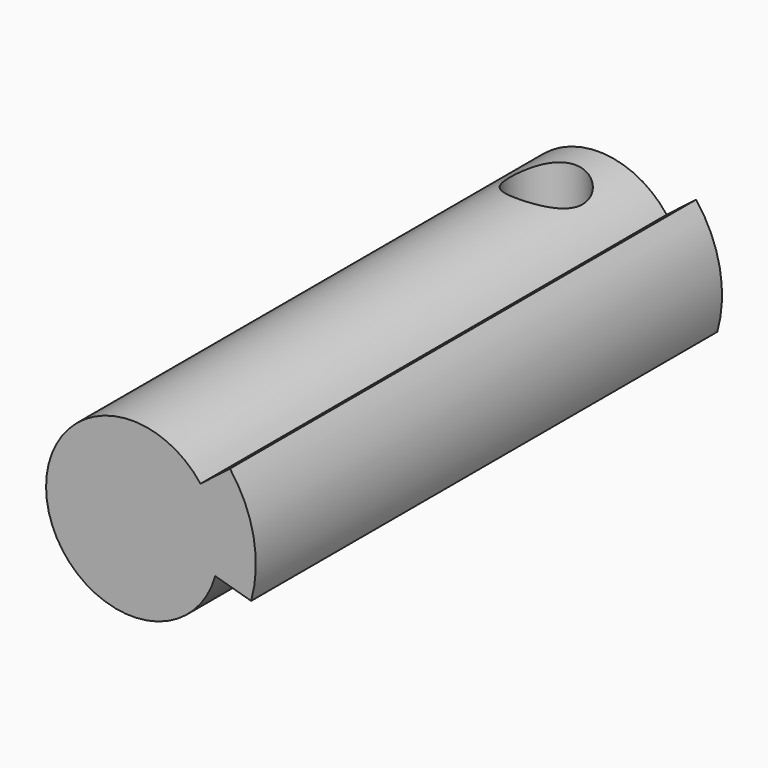
from build123d import *

# Parameters (mm, degrees)
F1_DEPTH      = 50.8
F2_R          = 6.35
F3_DEPTH      = 15.0378
F3_DEPTH_BACK = 25.4


with BuildPart() as f1:
    # F0 (on Front) → F1 (new body, symmetric)
    with BuildSketch(Plane.XZ):
        with BuildLine():
            Line((17.0268970914, 13.1917365074), (11.886701743, 9.2093254863))
            ThreePointArc((11.886701743, 9.2093254863), (-14.7645031598, -2.8486489228), (14.4596240561, -4.1260909341))
            Line((14.4596240561, -4.1260909341), (20.7124344587, -5.9103464731))
            ThreePointArc((20.7124344587, -5.9103464731), (21.1491531748, 4.0804971056), (17.0268970914, 13.1917365074))
        make_face()
    extrude(amount=F1_DEPTH, both=True)

    # F2 (on Top) → F3 (cut, two sides)
    with BuildSketch(Plane.XY) as f3_sk:
        with Locations((0, 39.4029297239)):
            Circle(F2_R)
    extrude(amount=-F3_DEPTH, mode=Mode.SUBTRACT)
    extrude(f3_sk.sketch, amount=F3_DEPTH_BACK, mode=Mode.SUBTRACT)


solid = f1.part
